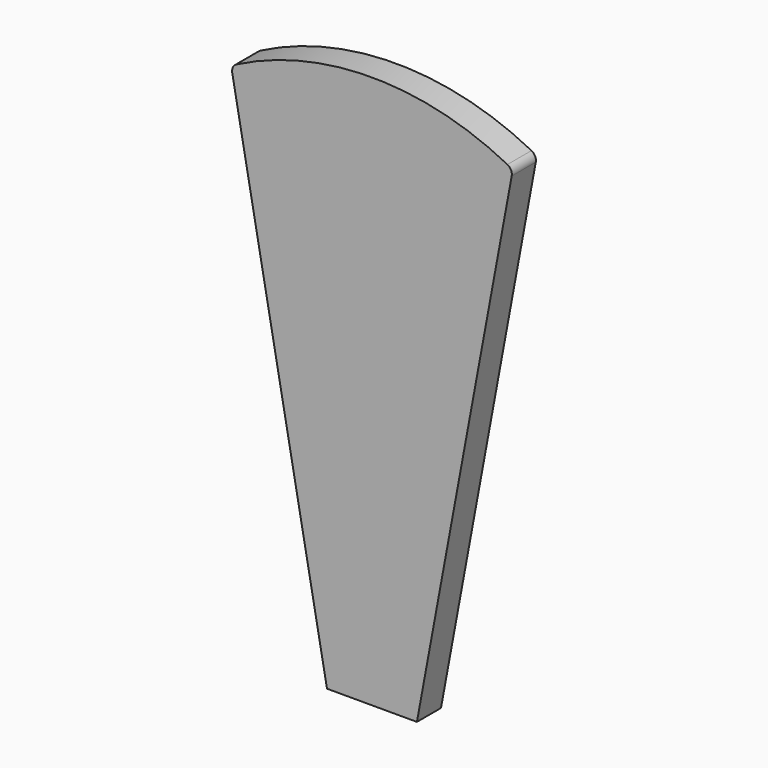
from build123d import *

# Parameters (mm, degrees)
F1_DEPTH = 18.5
F2_R     = 5
F3_R     = 5


with BuildPart() as f1:
    # F0 (on Front) → F1 (new body)
    with BuildSketch(Plane.XZ):
        with BuildLine():
            Line((-27.65, 0), (27.65, 0))
            Line((27.65, 0), (86.618847, 318.167425))
            ThreePointArc((86.618847, 318.167425), (0, 340), (-86.618847, 318.167425))
            Line((-86.618847, 318.167425), (-27.65, 0))
        make_face()
    extrude(amount=F1_DEPTH)

    # F2
    f2_edges = [f1.edges().sort_by_distance(p)[0] for p in [
        (-86.618847, -9.25, 318.167425),
    ]]
    fillet(f2_edges, radius=F2_R)

    # F3
    f3_edges = [f1.edges().sort_by_distance(p)[0] for p in [
        (86.618847, -9.25, 318.167425),
    ]]
    fillet(f3_edges, radius=F3_R)


solid = f1.part
